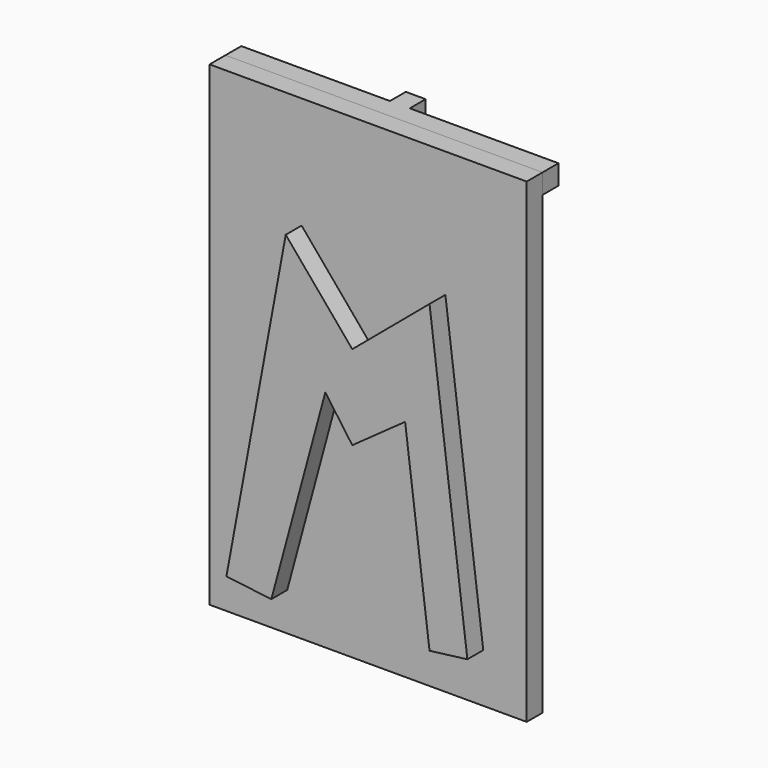
from build123d import *

# Parameters (mm, degrees)
F0_W     = 2
F0_H     = 48
F1_DEPTH = 2
F3_DEPTH = 2
F4_W     = 2
F4_H     = 48
F5_DEPTH = 32
F7_DEPTH = 2


with BuildPart() as f1:
    # F0 (on Front) → F1 (new body)
    with BuildSketch(Plane.XZ):
        Rectangle(F0_W, F0_H)
    extrude(amount=F1_DEPTH)

    # F2 (on face) → F3 (join)
    with BuildSketch(Plane.XZ.offset(2)):
        Polygon((16, 24), (-1, 24), (-16, 24), (-16, 22), (16, 22), align=None)
    extrude(amount=F3_DEPTH)


with BuildPart() as f5:
    # F4 (on face) → F5 (new body)
    with BuildSketch(Plane(origin=(-16, 0, 0), x_dir=(0, -1, 0), z_dir=(-1, 0, 0))):
        with Locations((5, 0)):
            Rectangle(F4_W, F4_H)
    extrude(amount=-F5_DEPTH)


with BuildPart() as f7:
    # F6 (on face) → F7 (new body)
    with BuildSketch(Plane.XZ.offset(6)):
        Polygon((-6.71371, 12.701613), (-12.701614, -19.596776), (-8.165322, -20.14113), (-2.722958, 0), (0, -3.810484), (5.332359, 0), (7.793031, -19.533614), (11.612904, -19.05242), (7.793031, 11.270973), (0, 4.717742), align=None)
    extrude(amount=F7_DEPTH)


solid = Compound([f1.part, f5.part, f7.part])
